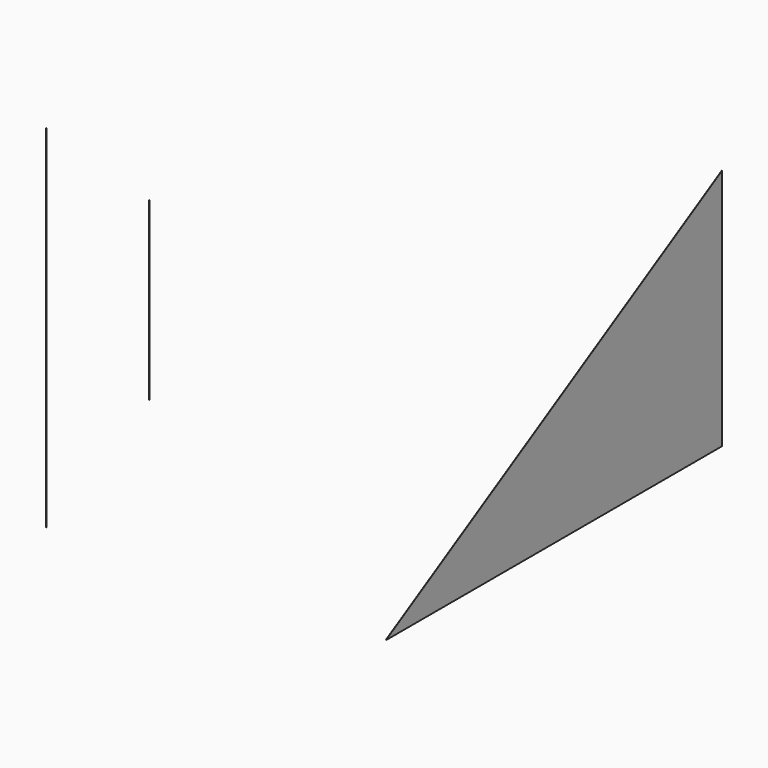
from build123d import *

# Parameters (mm, degrees)
F1_DEPTH = 0.254
F2_W     = 0.254
F2_H     = 191.41186
F3_DEPTH = 0.254
F4_W     = 0.254
F4_H     = 191.4144
F5_DEPTH = 0.254


with BuildPart() as f1:
    # F0 (on Right) → F1 (new body)
    with BuildSketch(Plane.YZ):
        Polygon((457.2, 263.964543), (0, 0), (457.2, 0), align=None)
    extrude(amount=F1_DEPTH)


with BuildPart() as f3:
    # F2 (on Right) → F3 (new body)
    with BuildSketch(Plane.YZ):
        with Locations((-461.891983, 391.574835)):
            Rectangle(F2_W, F2_H)
        with Locations((-461.891983, 582.986695)):
            Rectangle(F2_W, F2_H)
    extrude(amount=F3_DEPTH)


with BuildPart() as f5:
    # F4 (on Right) → F5 (new body)
    with BuildSketch(Plane.YZ):
        with Locations((-321.993692, 457.019314)):
            Rectangle(F4_W, F4_H)
    extrude(amount=F5_DEPTH)


solid = Compound([f1.part, f3.part, f5.part])
